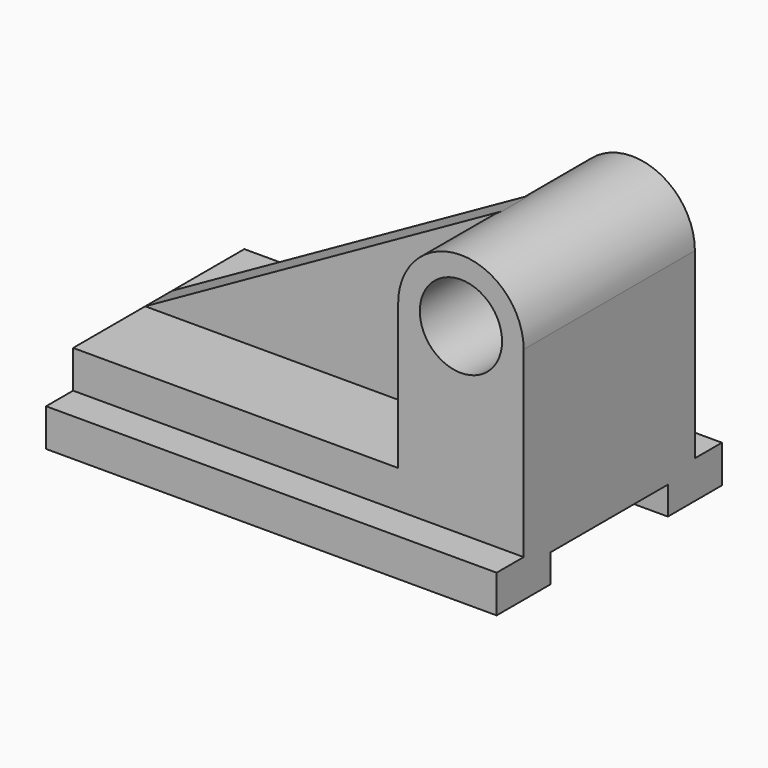
from build123d import *

# Parameters (mm, degrees)
F0_R     = 3.65
F1_DEPTH = 9.5
F0_W     = 40
F0_H     = 3.34
F2_DEPTH = 12.5
F4_DEPTH = 1.5
F5_W     = 13
F5_H     = 2.5
F6_DEPTH = 40.001


with BuildPart() as f1:
    # F0 (on Front) → F1 (new body, symmetric)
    with BuildSketch(Plane.XZ):
        with BuildLine():
            ThreePointArc((28.86, 19.57), (34.43, 14), (40, 19.57))
            ThreePointArc((40, 19.57), (34.43, 25.14), (28.86, 19.57))
        make_face()
        with Locations((34.43, 19.57)):
            Circle(F0_R, mode=Mode.SUBTRACT)
        with BuildLine():
            Line((40, 3.34), (40, 19.57))
            ThreePointArc((40, 19.57), (34.43, 14), (28.86, 19.57))
            Line((28.86, 19.57), (28.86, 6.68))
            Line((28.86, 6.68), (0, 6.68))
            Line((0, 6.68), (0, 3.34))
            Line((0, 3.34), (40, 3.34))
        make_face()
    extrude(amount=F1_DEPTH, both=True)

    # F0 (on Front) → F2 (join, symmetric)
    with BuildSketch(Plane.XZ):
        with Locations((20, 1.67)):
            Rectangle(F0_W, F0_H)
    extrude(amount=F2_DEPTH, both=True)

    # F3 (on Front) → F4 (join, symmetric)
    with BuildSketch(Plane.XZ):
        with BuildLine():
            ThreePointArc((28.86, 19.57), (29.6248313017, 22.3869582498), (31.7092832247, 24.4303086557))
            Line((31.7092832247, 24.4303086557), (0, 6.68))
            Line((0, 6.68), (28.86, 6.68))
            Line((28.86, 6.68), (28.86, 19.57))
        make_face()
    extrude(amount=F4_DEPTH, both=True)

    # F5 (on face) → F6 (cut, through all)
    with BuildSketch(Plane(origin=(0, 0, 0), x_dir=(0, -1, 0), z_dir=(-1, 0, 0))):
        with Locations((0, 1.25)):
            Rectangle(F5_W, F5_H)
    extrude(amount=-F6_DEPTH, mode=Mode.SUBTRACT)


solid = f1.part
